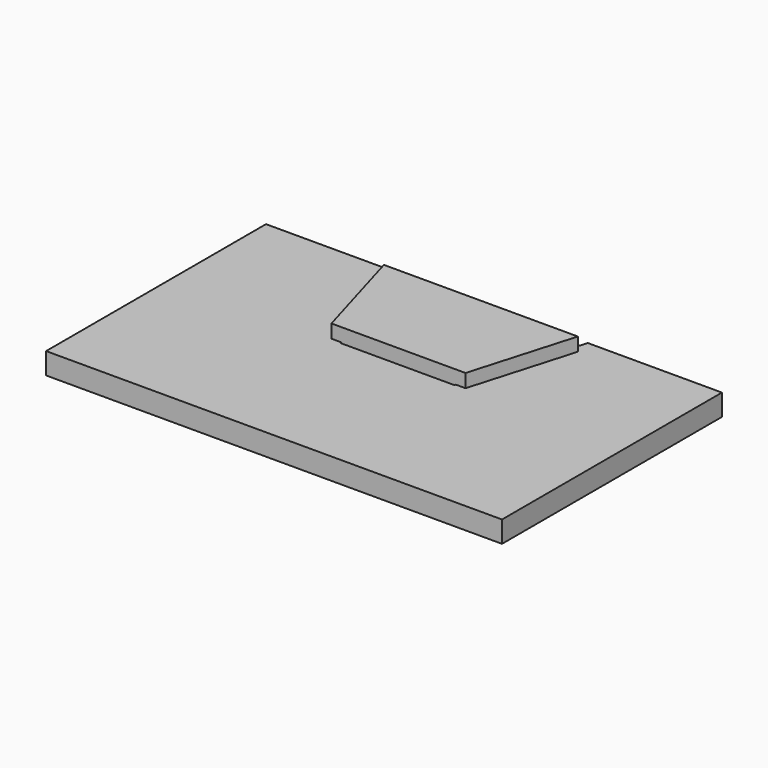
from build123d import *

# Parameters (mm, degrees)
PAD_DEPTH    = 3.2
PAD001_DEPTH = 7.2


with BuildPart() as body_wall:
    # Sketch → Pad (new body)
    with BuildSketch(Plane.XY):
        Polygon((-34, 18), (-14, 18), (-8.5, 0), (8.5, 0), (14, 18), (34, 18), (34, -23), (-34, -23), align=None)
    extrude(amount=PAD_DEPTH)


with BuildPart() as body_blank:
    # Sketch001 → Pad001 (new body)
    with BuildSketch(Plane.XY):
        Polygon((-14.461527, 15.556677), (-10, 0.2), (10, 0.2), (14.461527, 15.556677), align=None)
    extrude(amount=PAD001_DEPTH)


with BuildPart() as body_blank_1:
    # Body001 placement: moved
    add(body_blank.part.moved(Location((0, 0, -2))))


solid = Compound([body_wall.part, body_blank_1.part])
